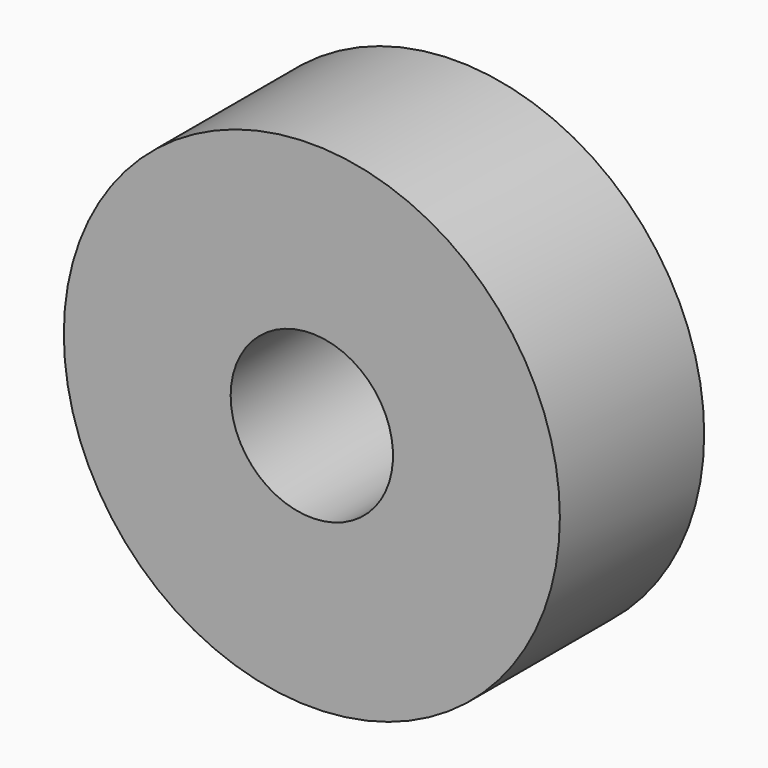
from build123d import *

# Parameters (mm, degrees)
CYLINDER015_R            = 0.9
CYLINDER015_DEPTH        = 2
CYLINDER014_R            = 2.75
CYLINDER014_DEPTH        = 2
CLONE015_PLACEMENT_ANGLE = 90


with BuildPart() as faceanchorscrewhole:
    # Cylinder015 → Cylinder015 (new body)
    with BuildSketch(Plane.XY):
        Circle(CYLINDER015_R)
    extrude(amount=CYLINDER015_DEPTH)


with BuildPart() as faceanchor001:
    # Cylinder014 → Cylinder014 (new body)
    with BuildSketch(Plane.XY):
        Circle(CYLINDER014_R)
    extrude(amount=CYLINDER014_DEPTH)

    # Cut015: cut FaceAnchorScrewHole
    add(faceanchorscrewhole.part, mode=Mode.SUBTRACT)


with BuildPart() as faceanchor001_1:
    # Clone015 placement: moved
    add(faceanchor001.part.moved(Location((-8.5, 2, 7))).rotate(Axis((-8.5, 2, 7), (1, 0, 0)), CLONE015_PLACEMENT_ANGLE))


with BuildPart() as part_mirroring021:
    # Part__Mirroring021: instance of FaceAnchor001
    add(faceanchor001_1.part.mirror(Plane(origin=(87, 0, 0), x_dir=(0, -1, 0), z_dir=(1, 0, 0))))


solid = part_mirroring021.part
